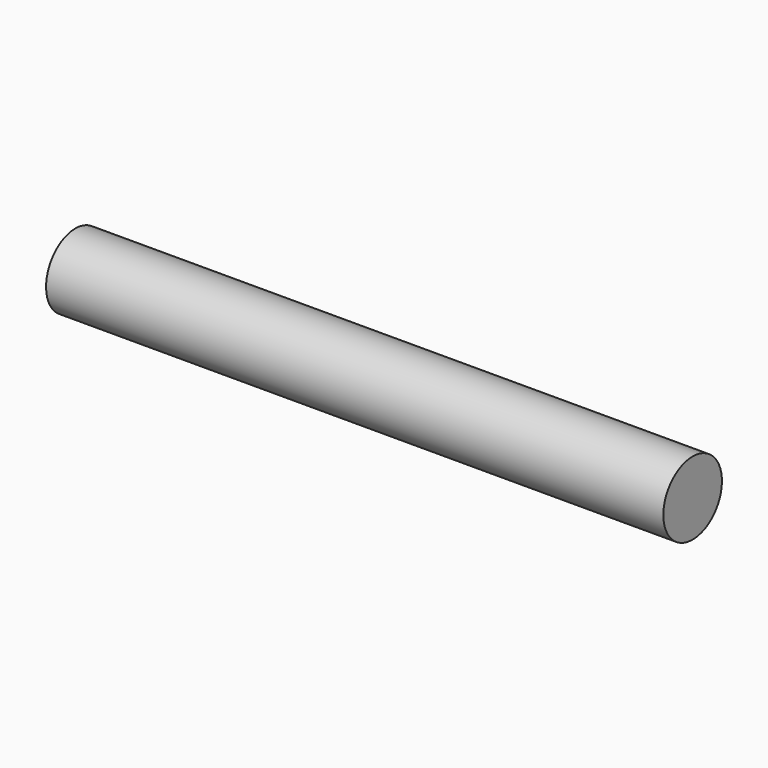
from build123d import *

# Parameters (mm, degrees)
F0_W = 25.275
F0_H = 1.5


with BuildPart() as f1:
    # F0 (on Front) → F1 (revolve)
    with BuildSketch(Plane.XZ):
        Rectangle(F0_W, F0_H)
    revolve(axis=Axis((0, 0, -0.75), (-1, 0, 0)))


solid = f1.part
